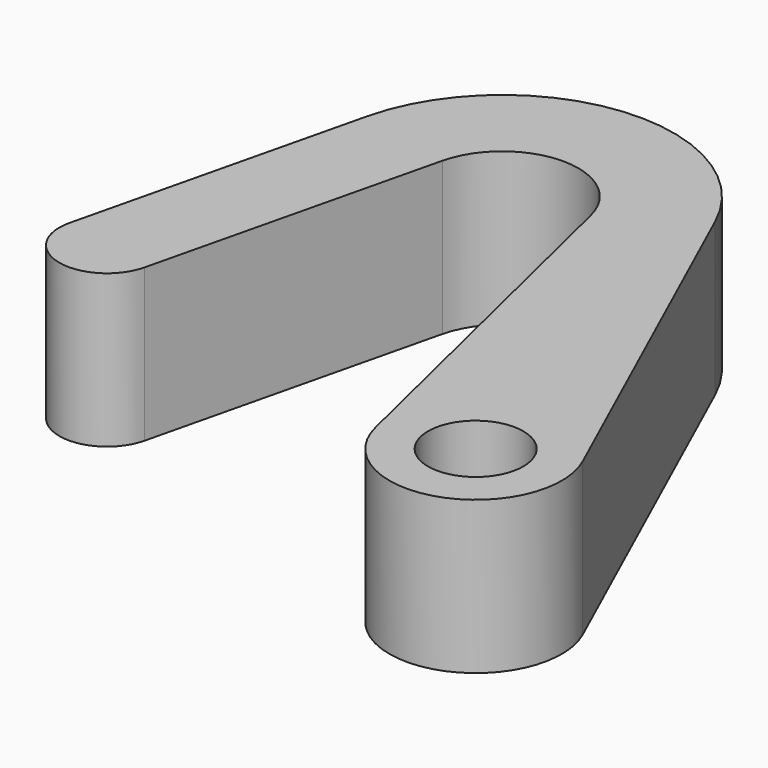
from build123d import *

# Parameters (mm, degrees)
SKETCH_R  = 2.5
PAD_DEPTH = 8


with BuildPart() as part:
    # Sketch → Pad (new body)
    with BuildSketch(Plane.XY):
        with BuildLine():
            Line((-7.5, -18.063786), (-3.888895, -3.063786))
            ThreePointArc((3.888895, -3.063786), (0, 0), (-3.888895, -3.063786))
            Line((3.888895, -3.063786), (8.739067, -23.210688))
            ThreePointArc((8.739067, -23.210688), (14.601072, -26.428031), (17.25159, -20.288881))
            Line((17.25159, -20.288881), (8.199243, -0.288881))
            ThreePointArc((8.199243, -0.288881), (-0.848265, 4.959936), (-8.750014, -1.893519))
            Line((-8.750014, -1.893519), (-12.361119, -16.893519))
            ThreePointArc((-12.361119, -16.893519), (-10.515693, -19.909212), (-7.5, -18.063786))
        make_face()
        with Locations((13.133636, -22.152737)):
            Circle(SKETCH_R, mode=Mode.SUBTRACT)
    extrude(amount=PAD_DEPTH)


solid = part.part
